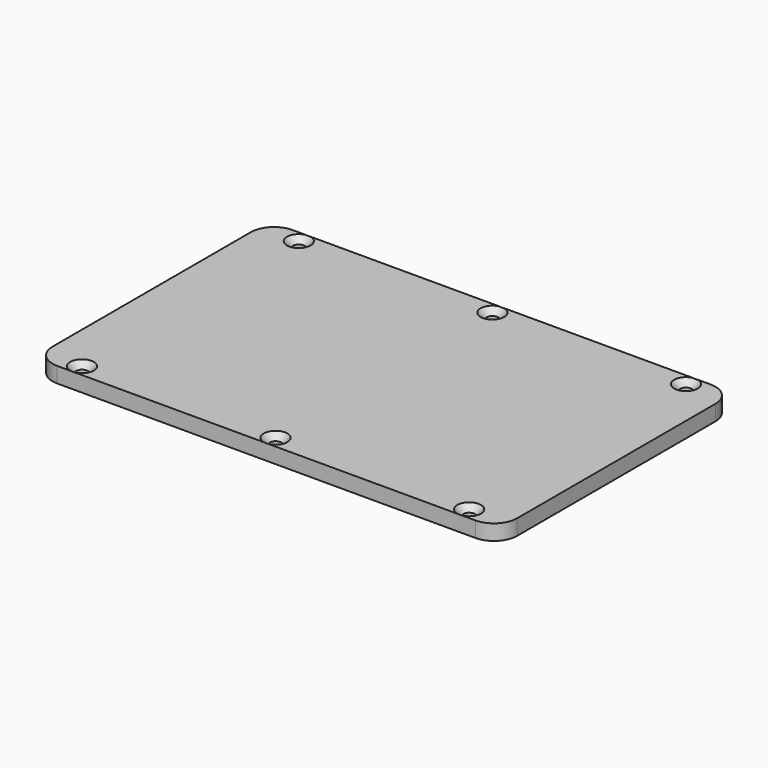
from build123d import *

# Parameters (mm, degrees)
PAD_DEPTH        = 4
HOLE_D           = 3
HOLE_DEPTH       = 25
HOLE_CSINK_D     = 6.1
HOLE_CSINK_ANGLE = 90
SKETCH002_R      = 4
PAD001_DEPTH     = 6
SKETCH003_W      = 40
SKETCH003_H      = 5
PAD002_DEPTH     = 1
SKETCH004_W      = 30
SKETCH004_H      = 64
SKETCH004_H_2    = 60
SKETCH004_W_2    = 44
SKETCH004_H_3    = 8
POCKET_DEPTH     = 2


with BuildPart() as part:
    # Sketch → Pad (new body)
    with BuildSketch(Plane.XY):
        with BuildLine():
            Line((60, -32), (60, 32))
            ThreePointArc((60, 32), (58.242641, 36.242641), (54, 38))
            Line((54, 38), (-54, 38))
            ThreePointArc((-54, 38), (-58.242641, 36.242641), (-60, 32))
            Line((-60, 32), (-60, -32))
            ThreePointArc((-60, -32), (-58.242641, -36.242641), (-54, -38))
            Line((-54, -38), (54, -38))
            ThreePointArc((54, -38), (58.242641, -36.242641), (60, -32))
        make_face()
    extrude(amount=PAD_DEPTH)

    # Hole
    with Locations(Plane.XY.offset(4)):
        with Locations((0, -35), (0, 35), (50, 35), (-50, 35), (-50, -35), (50, -35)):
            CounterSinkHole(HOLE_D / 2, HOLE_CSINK_D / 2, depth=HOLE_DEPTH, counter_sink_angle=HOLE_CSINK_ANGLE)

    # Sketch002 (on Face4 of Hole) → Pad001 (join)
    with BuildSketch(Plane(origin=(0, 0, 0), x_dir=(1, 0, 0), z_dir=(0, 0, -1))):
        with Locations((18, 0)):
            Circle(SKETCH002_R)
        with Locations((-18, 0)):
            Circle(SKETCH002_R)
    extrude(amount=PAD001_DEPTH)

    # Sketch003 (on Face4 of Pad001) → Pad002 (join)
    with BuildSketch(Plane(origin=(0, 0, 0), x_dir=(1, 0, 0), z_dir=(0, 0, -1))):
        with Locations((0, 21.5)):
            Rectangle(SKETCH003_W, SKETCH003_H)
        with Locations((0, -21.5)):
            Rectangle(SKETCH003_W, SKETCH003_H)
    extrude(amount=PAD002_DEPTH)

    # Sketch004 (on Face4 of Pad002) → Pocket (cut)
    with BuildSketch(Plane(origin=(0, 0, 0), x_dir=(1, 0, 0), z_dir=(0, 0, -1))):
        with Locations((-42, 0)):
            Rectangle(SKETCH004_W, SKETCH004_H)
        with Locations((42, 2)):
            Rectangle(SKETCH004_W, SKETCH004_H_2)
        with Locations((0, 11)):
            Rectangle(SKETCH004_W_2, SKETCH004_H_3)
        with Locations((0, -11)):
            Rectangle(SKETCH004_W_2, SKETCH004_H_3)
    extrude(amount=-POCKET_DEPTH, mode=Mode.SUBTRACT)


solid = part.part
